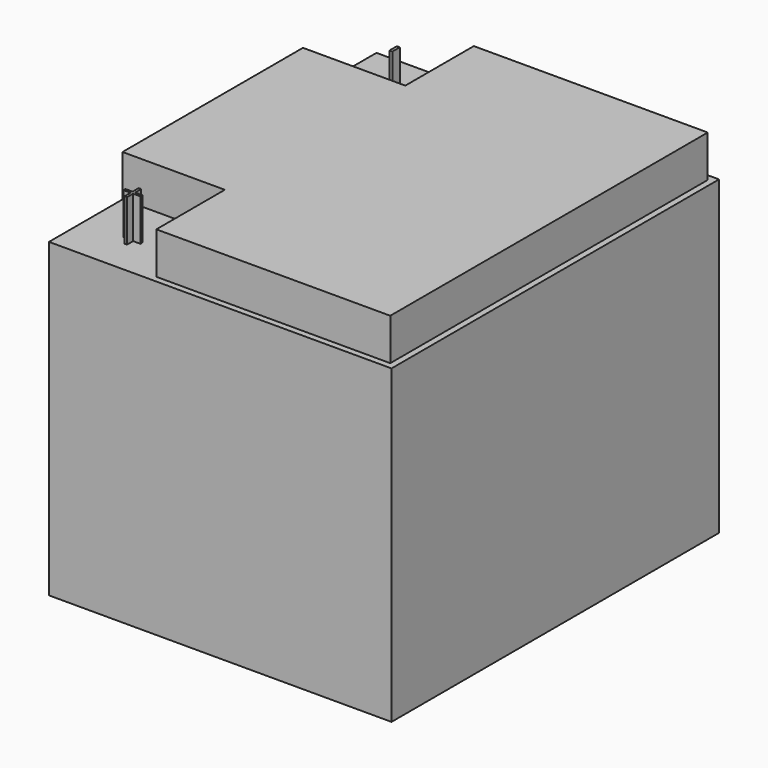
from build123d import *

# Parameters (mm, degrees)
F0_W     = 164
F0_H     = 169
F1_DEPTH = 196
F2_W     = 1.388375636
F2_H     = 4.4837225804
F3_DEPTH = 20


with BuildPart() as f1:
    # F0 (on Front) → F1 (new body)
    with BuildSketch(Plane.XZ):
        with Locations((-82, 84.5)):
            Rectangle(F0_W, F0_H)
    extrude(amount=F1_DEPTH)

    # F2 (on face) → F3 (cut)
    with BuildSketch(Plane.XY.offset(169)):
        Polygon((-115, 0), (-164, 0), (-164, -44), (-115, -44), (-115, -3), align=None)
        with Locations((-136.7139425929, -23.2807436195)):
            Rectangle(F2_W, F2_H, mode=Mode.SUBTRACT)
        Polygon((-115, -152), (-164, -152), (-164, -196), (-115, -196), (-115, -193), align=None)
        Polygon((-139.8162649485, -171.0934701486), (-139.8162649485, -174.7170210971), (-136.3282245066, -174.7170210971), (-136.3282245066, -175.8851216647), (-139.8162649485, -175.8851216647), (-139.8162649485, -179.4951215626), (-140.9952063566, -179.4951215626), (-140.9952063566, -175.8851216647), (-144.4669855377, -175.8851216647), (-144.4669855377, -174.7170210971), (-140.9952063566, -174.7170210971), (-140.9952063566, -171.0934701486), align=None, mode=Mode.SUBTRACT)
        Polygon((0, 0), (-115, 0), (-115, -3), (-3, -3), (-3, -193), (-115, -193), (-115, -196), (0, -196), align=None)
    extrude(amount=-F3_DEPTH, mode=Mode.SUBTRACT)


solid = f1.part
